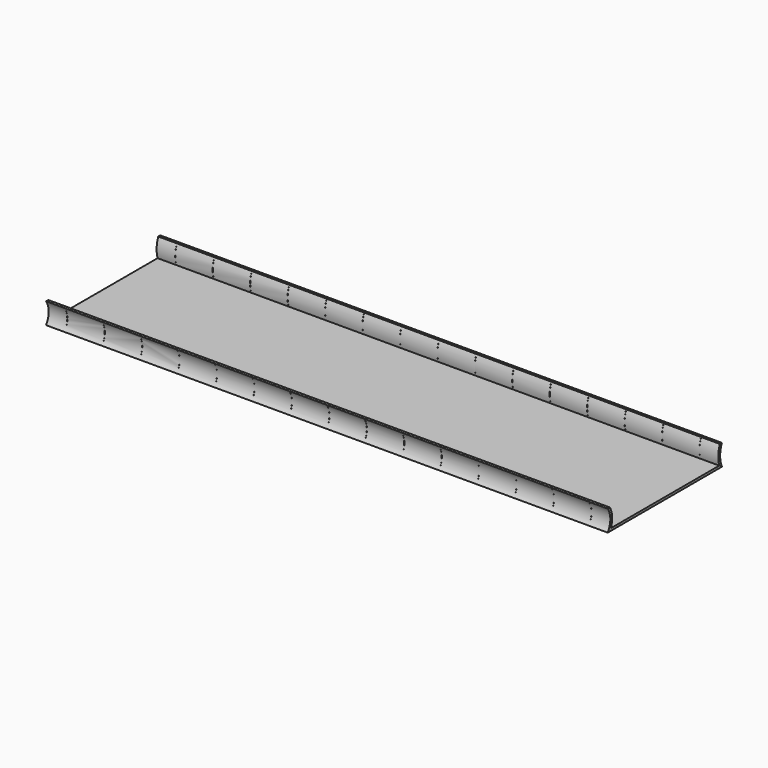
from build123d import *

# Parameters (mm, degrees)
F1_DEPTH      = 1524
F2_R          = 1.5875
F3_DEPTH      = 1524.001
F4_W          = 0.3175
F4_H          = 44.45
F5_DEPTH      = 193.3445428183
F5_DEPTH_BACK = 192.6822115509


with BuildPart() as f1:
    # F0 (on Right) → F1 (new body)
    with BuildSketch(Plane.YZ):
        with BuildLine():
            ThreePointArc((-193.675, 57.15), (-184.8763020632, 28.575), (-193.675, 0))
            Line((-193.675, 0), (193.675, 0))
            ThreePointArc((193.675, 0), (187.5626801821, 28.575), (193.675, 57.15))
            Line((193.675, 57.15), (186.7733895925, 57.15))
            ThreePointArc((186.7733895925, 57.15), (181.2871488449, 31.94300811), (184.5258543835, 6.35))
            Line((184.5258543835, 6.35), (-183.0248835163, 6.35))
            ThreePointArc((-183.0248835163, 6.35), (-178.6364166438, 32.1209796041), (-186.1829502369, 57.15))
            Line((-186.1829502369, 57.15), (-193.675, 57.15))
        make_face()
    extrude(amount=-F1_DEPTH)

    # F2 (on face) → F3 (cut, through all)
    with BuildSketch(Plane.YZ):
        with Locations((190.5, 53.975)):
            Circle(F2_R)
        with Locations((190.5, 3.175)):
            Circle(F2_R)
    extrude(amount=-F3_DEPTH, mode=Mode.SUBTRACT)

    # F4 (on Front) → F5 (cut, two sides)
    with BuildSketch(Plane.XZ) as f5_sk:
        with Locations((-50.95875, 31.75)):
            Rectangle(F4_W, F4_H)
        with Locations((-152.55875, 31.75)):
            Rectangle(F4_W, F4_H)
        with Locations((-254.15875, 31.75)):
            Rectangle(F4_W, F4_H)
        with Locations((-355.75875, 31.75)):
            Rectangle(F4_W, F4_H)
        with Locations((-457.35875, 31.75)):
            Rectangle(F4_W, F4_H)
        with Locations((-558.95875, 31.75)):
            Rectangle(F4_W, F4_H)
        with Locations((-660.55875, 31.75)):
            Rectangle(F4_W, F4_H)
        with Locations((-762.15875, 31.75)):
            Rectangle(F4_W, F4_H)
        with Locations((-863.75875, 31.75)):
            Rectangle(F4_W, F4_H)
        with Locations((-965.35875, 31.75)):
            Rectangle(F4_W, F4_H)
        with Locations((-1066.95875, 31.75)):
            Rectangle(F4_W, F4_H)
        with Locations((-1168.55875, 31.75)):
            Rectangle(F4_W, F4_H)
        with Locations((-1270.15875, 31.75)):
            Rectangle(F4_W, F4_H)
        with Locations((-1371.75875, 31.75)):
            Rectangle(F4_W, F4_H)
        with Locations((-1473.35875, 31.75)):
            Rectangle(F4_W, F4_H)
    extrude(amount=-F5_DEPTH, mode=Mode.SUBTRACT)
    extrude(f5_sk.sketch, amount=F5_DEPTH_BACK, mode=Mode.SUBTRACT)


solid = f1.part
